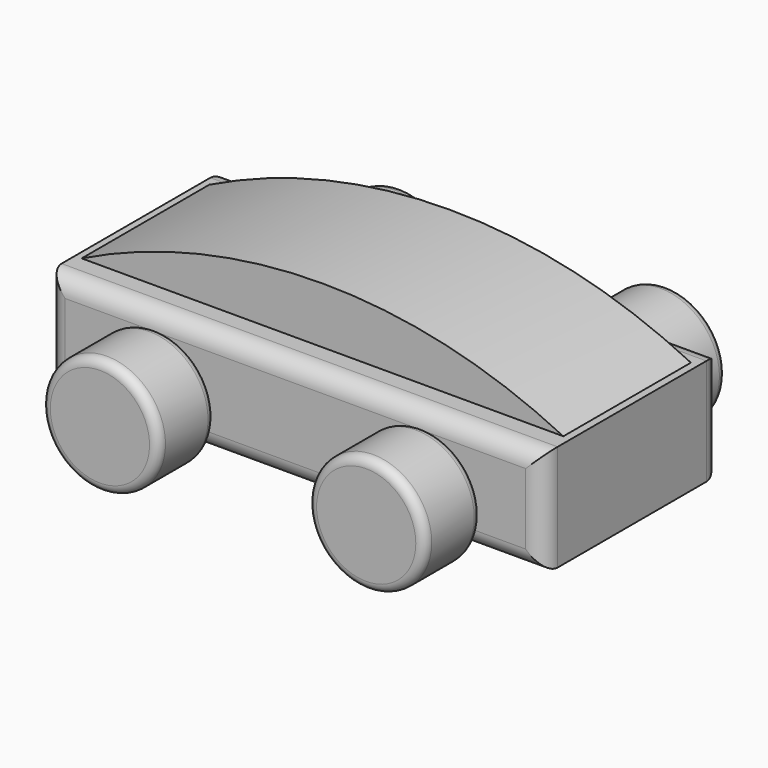
from build123d import *

# Parameters (mm, degrees)
F2_DEPTH  = 39.6875
F4_R      = 20.955
F5_DEPTH  = 25.4
F6_R      = 6.35
F7_R      = 3.175
F11_DEPTH = 28.575


with BuildPart() as f2:
    # F0 (on Front) → F2 (new body, symmetric)
    with BuildSketch(Plane.XZ):
        Polygon((59.189826, -19.05), (88.9, -19.05), (88.9, 19.05), (-88.9, 19.05), (-88.9, -19.05), align=None)
    extrude(amount=F2_DEPTH, both=True)

    # F6
    f6_edges = [f2.edges().sort_by_distance(p)[0] for p in [
        (0, -39.6875, 19.05),
        (0, -39.6875, -19.05),
        (-88.9, -39.6875, 0),
        (88.9, -39.6875, 0),
        (88.9, 39.6875, 0),
        (0, 39.6875, 19.05),
        (-88.9, 39.6875, 0),
        (0, 39.6875, -19.05),
    ]]
    fillet(f6_edges, radius=F6_R)


with BuildPart() as f5:
    # F4 (on offset) → F5 (new body)
    with BuildSketch(Plane.XZ.offset(42.2275)):
        with Locations((47.720712, -5.08)):
            Circle(F4_R)
    extrude(amount=F5_DEPTH)

    # F7
    f7_edges = [f5.edges().sort_by_distance(p)[0] for p in [
        (26.765712, -67.6275, -5.08),
        (26.765712, -42.2275, -5.08),
    ]]
    fillet(f7_edges, radius=F7_R)


with BuildPart() as f8_1:
    # F8: instance of F5
    add(f5.part.mirror(Plane.XZ))


with BuildPart() as f9_1:
    # F9: instance of F5
    add(f5.part.mirror(Plane.YZ))


with BuildPart() as f9_2:
    # F9: instance of F8_1
    add(f8_1.part.mirror(Plane.YZ))


with BuildPart() as f11:
    # F10 (on Front) → F11 (new body, symmetric)
    with BuildSketch(Plane.XZ):
        with BuildLine():
            ThreePointArc((87.142169, 19.868158), (0.818769, 40.041205), (-85.504632, 19.868158))
            Line((-85.504632, 19.868158), (87.142169, 19.868158))
        make_face()
    extrude(amount=F11_DEPTH, both=True)


solid = Compound([f2.part, f5.part, f8_1.part, f9_1.part, f9_2.part, f11.part])
